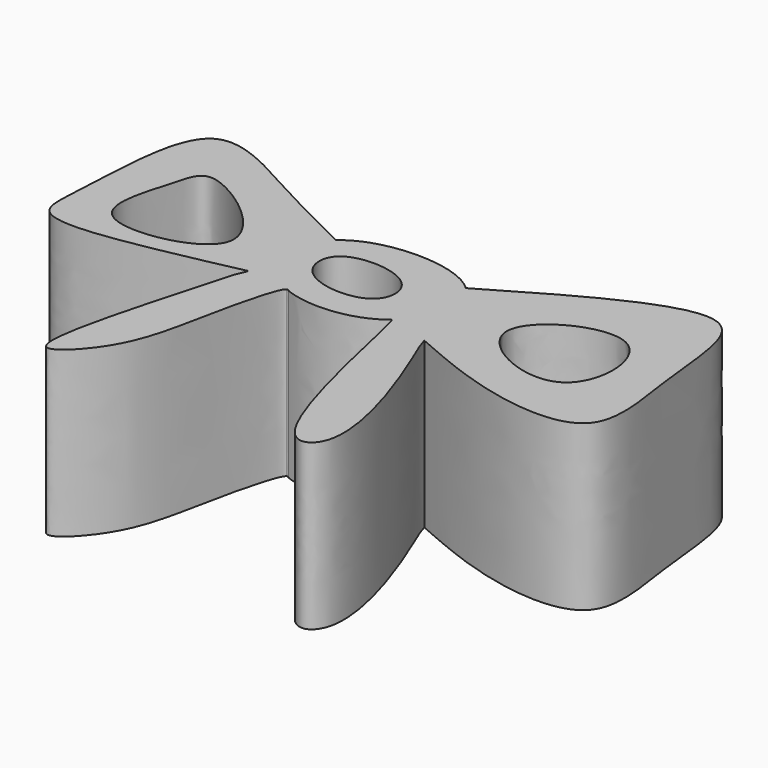
from build123d import *

# Parameters (mm, degrees)
F1_DEPTH = 25.4


with BuildPart() as f1:
    # F0 (on Top) → F1 (new body)
    with BuildSketch(Plane.XY):
        with BuildLine():
            add(Edge.make_bspline(
                [(-12.4094365429, 0), (-15.9598082172, 3.1181530554), (-16.5396419769, 8.82840617), (-13.0190365281, 12.0380586013)],
                knots=[0.7778799237, 0.7778799237, 0.7778799237, 0.7778799237, 1, 1, 1, 1], degree=3))
            add(Edge.make_bspline(
                [(-13.0190365281, 12.0380586013), (-17.5163105966, 14.2326375354), (-26.2937660011, 18.5158585338), (-45.1116276086, 29.6487484257), (-44.8961620764, 3.4804410619), (-46.5730483026, -6.641597382), (-28.4412416329, -3.4510656785), (-19.663444531, -1.5902374571), (-16.2225697197, -0.8389911409)],
                knots=[0, 0, 0, 0, 0.1735675915, 0.3387567159, 0.5332886561, 0.6535125192, 0.8292199374, 0.9534512348, 0.9534512348, 0.9534512348, 0.9534512348], degree=3))
            add(Edge.make_bspline(
                [(-16.2225697197, -0.8389911409), (-14.9332933692, -0.5575033908), (-13.6713649561, -0.2787516954), (-12.4094365429, 0)],
                knots=[0.9534512348, 0.9534512348, 0.9534512348, 0.9534512348, 1, 1, 1, 1], degree=3))
        make_face()
        with BuildLine():
            add(Edge.make_bspline(
                [(-37.7952009439, 11.1235836521), (-38.8396708455, 7.3590519144), (-43.1218577014, -4.1431442887), (-12.9659231769, 1.6299835609), (-36.2932435418, 18.9031530947), (-37.0780413019, 13.7084070437), (-37.7952009439, 11.1235836521)],
                knots=[0, 0, 0, 0, 0.2447576035, 0.5329253854, 0.8319431943, 1, 1, 1, 1], degree=3))
        make_face(mode=Mode.SUBTRACT)
        with BuildLine():
            add(Edge.make_bspline(
                [(-9.6625482294, -1.6914200375), (-10.6899773389, -1.2547135361), (-11.6226482059, -0.691005529), (-12.4094365429, 0)],
                knots=[0.7286564898, 0.7286564898, 0.7286564898, 0.7286564898, 0.7778799237, 0.7778799237, 0.7778799237, 0.7778799237], degree=3))
            add(Edge.make_bspline(
                [(-16.2225697197, -0.8389911409), (-14.9332933692, -0.5575033908), (-13.6713649561, -0.2787516954), (-12.4094365429, 0)],
                knots=[0.9534512348, 0.9534512348, 0.9534512348, 0.9534512348, 1, 1, 1, 1], degree=3))
            add(Edge.make_bspline(
                [(-17.0392524451, -2.8363007586), (-16.7701819254, -2.1560708718), (-16.4916402394, -1.5192210277), (-16.2225697197, -0.8389911409)],
                knots=[0, 0, 0, 0, 2.1578267732, 2.1578267732, 2.1578267732, 2.1578267732], degree=3))
            add(Edge.make_bspline(
                [(-17.0392524451, -2.8363007586), (-20.6241342631, -15.8973368652), (-27.2627518892, -37.7519596084), (-14.9682374542, -25.3509978614), (-13.3562654505, -13.7396534795), (-10.4318598563, -2.071644358), (-9.6625482294, -1.6914200375)],
                knots=[0, 0, 0, 0, 0.3372997812, 0.5120295412, 0.75128543, 0.957152622, 0.957152622, 0.957152622, 0.957152622], degree=3))
        make_face()
        with BuildLine():
            add(Edge.make_bspline(
                [(7.0063152822, 12.0386227271), (19.2769673547, 19.2764928544), (40.0361500598, 31.5152192821), (40.0714523577, 9.0948051628), (44.8661578295, -10.0398863942), (25.5508614029, -7.9226847228), (14.7883073543, -3.1261801842), (11.649640579, -1.7714464463)],
                knots=[0, 0, 0, 0, 0.2436033636, 0.4120569281, 0.5821856101, 0.7621097204, 0.8720298292, 0.8720298292, 0.8720298292, 0.8720298292], degree=3))
            add(Edge.make_bspline(
                [(7.0063152822, 12.0386227271), (10.2324229489, 8.8266633837), (9.0727732272, 3.1206848934), (5.1812132869, 0)],
                knots=[0.2863001665, 0.2863001665, 0.2863001665, 0.2863001665, 0.5095479254, 0.5095479254, 0.5095479254, 0.5095479254], degree=3))
            add(Edge.make_bspline(
                [(5.2029190985, 0.0045748901), (5.1951591874, 0.0067760408), (5.1879220519, 0.0052781314), (5.1812132869, 0)],
                knots=[0.8742641427, 0.8742641427, 0.8742641427, 0.8742641427, 0.8782574085, 0.8782574085, 0.8782574085, 0.8782574085], degree=3))
            add(Edge.make_bspline(
                [(11.649640579, -1.7714464463), (9.6601923088, -0.9127465956), (6.7223929565, 0.3132954865), (5.672224795, 0.103439521), (5.2029190985, 0.0045748901)],
                knots=[0.8720298292, 0.8720298292, 0.8720298292, 0.8720298292, 0.941702842, 0.9991147898, 0.9991147898, 0.9991147898, 0.9991147898], degree=3))
        make_face()
        with BuildLine():
            add(Edge.make_bspline(
                [(17.8907729008, 6.3039227401), (17.8245231207, 10.7670616074), (35.0398536877, 19.6362268777), (35.4652810513, -6.5852690546), (17.9571138092, 1.8346447087), (17.8907729008, 6.3039227401)],
                knots=[0, 0, 0, 0, 0.3404121629, 0.6591195912, 1, 1, 1, 1], degree=3))
        make_face(mode=Mode.SUBTRACT)
        with BuildLine():
            add(Edge.make_bspline(
                [(-13.0190365281, 12.0380586013), (-8.4811760022, 16.1751183433), (2.8690501807, 16.1577435599), (7.0063152822, 12.0386227271)],
                knots=[0, 0, 0, 0, 0.2863001665, 0.2863001665, 0.2863001665, 0.2863001665], degree=3))
            add(Edge.make_bspline(
                [(-12.4094365429, 0), (-15.9598082172, 3.1181530554), (-16.5396419769, 8.82840617), (-13.0190365281, 12.0380586013)],
                knots=[0.7778799237, 0.7778799237, 0.7778799237, 0.7778799237, 1, 1, 1, 1], degree=3))
            add(Edge.make_bspline(
                [(-9.6625482294, -1.6914200375), (-10.6899773389, -1.2547135361), (-11.6226482059, -0.691005529), (-12.4094365429, 0)],
                knots=[0.7286564898, 0.7286564898, 0.7286564898, 0.7286564898, 0.7778799237, 0.7778799237, 0.7778799237, 0.7778799237], degree=3))
            add(Edge.make_bspline(
                [(-9.6625482294, -1.6914200375), (-9.5024305063, -1.6122835077), (-9.3675766686, -1.7504404023), (-9.2241626855, -1.8679160425)],
                knots=[0.957152622, 0.957152622, 0.957152622, 0.957152622, 1, 1, 1, 1], degree=3))
            add(Edge.make_bspline(
                [(5.1812132869, 0), (1.4823213503, -2.9661822934), (-4.6846677984, -3.5967256351), (-9.2241626855, -1.8679160425)],
                knots=[0.5095479254, 0.5095479254, 0.5095479254, 0.5095479254, 0.7217428673, 0.7217428673, 0.7217428673, 0.7217428673], degree=3))
            add(Edge.make_bspline(
                [(7.0063152822, 12.0386227271), (10.2324229489, 8.8266633837), (9.0727732272, 3.1206848934), (5.1812132869, 0)],
                knots=[0.2863001665, 0.2863001665, 0.2863001665, 0.2863001665, 0.5095479254, 0.5095479254, 0.5095479254, 0.5095479254], degree=3))
        make_face()
        with BuildLine():
            add(Edge.make_bspline(
                [(-10.0584002212, 8.989806287), (-7.847764741, 10.8404094512), (1.7586020364, 10.2716915757), (1.6319467713, 0.836231388), (-11.2793415163, 1.6626358512), (-11.6908913083, 7.6231887698), (-10.0584002212, 8.989806287)],
                knots=[0, 0, 0, 0, 0.2889201962, 0.5021152236, 0.786640697, 1, 1, 1, 1], degree=3))
        make_face(mode=Mode.SUBTRACT)
        with BuildLine():
            add(Edge.make_bspline(
                [(11.649640579, -1.7714464463), (11.9649268271, -3.0077407583), (13.825974453, -6.9202487359), (22.2223937623, -29.1307134623), (11.6063315296, -34.9861262136), (5.8425206762, -0.1768523743), (5.2029190985, 0.0045748901)],
                knots=[0, 0, 0, 0, 0.1412424399, 0.4216220797, 0.5451238822, 0.8742641427, 0.8742641427, 0.8742641427, 0.8742641427], degree=3))
            add(Edge.make_bspline(
                [(11.649640579, -1.7714464463), (9.6601923088, -0.9127465956), (6.7223929565, 0.3132954865), (5.672224795, 0.103439521), (5.2029190985, 0.0045748901)],
                knots=[0.8720298292, 0.8720298292, 0.8720298292, 0.8720298292, 0.941702842, 0.9991147898, 0.9991147898, 0.9991147898, 0.9991147898], degree=3))
        make_face()
    extrude(amount=F1_DEPTH)


solid = f1.part
